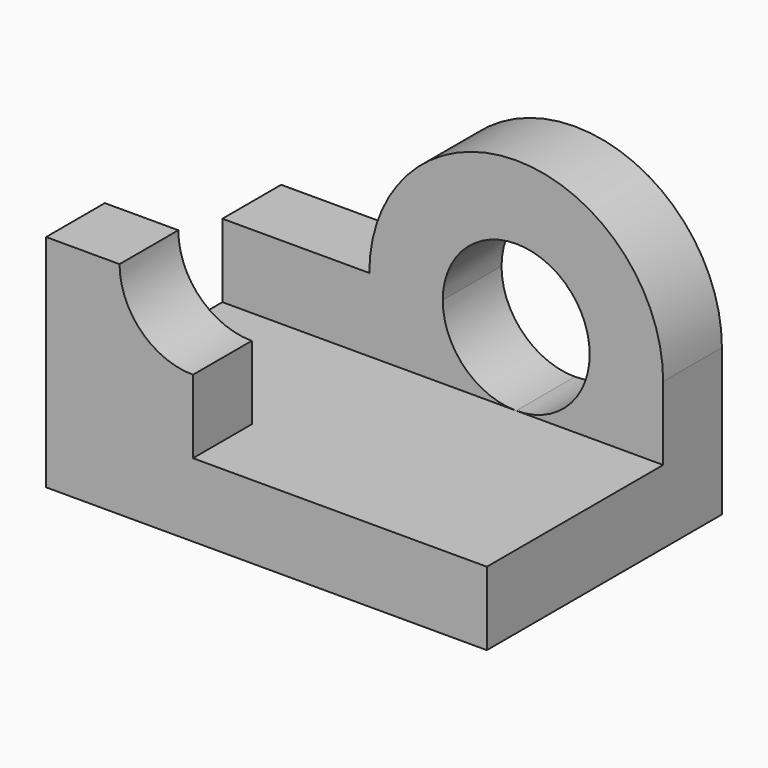
from build123d import *

# Parameters (mm, degrees)
F0_W      = 60
F0_H      = 40
F1_DEPTH  = 30
F3_DEPTH  = 20
F4_W      = 20
F4_H      = 10
F5_DEPTH  = 10
F6_W      = 40
F6_H      = 10
F7_DEPTH  = 25
F9_DEPTH  = 10
F11_DEPTH = 11
F13_DEPTH = 15
F16_DEPTH = 10
F18_DEPTH = 25


with BuildPart() as f1:
    # F0 (on Top) → F1 (new body)
    with BuildSketch(Plane.XY):
        with Locations((30, 20)):
            Rectangle(F0_W, F0_H)
    extrude(amount=F1_DEPTH)

    # F2 (on face) → F3 (cut)
    with BuildSketch(Plane.XY.offset(30)):
        Polygon((20, 10), (20, 0), (60, 0), (60, 30), (0, 30), (0, 10), align=None)
    extrude(amount=-F3_DEPTH, mode=Mode.SUBTRACT)

    # F4 (on face) → F5 (cut)
    with BuildSketch(Plane.XY.offset(30)):
        with Locations((10, 35)):
            Rectangle(F4_W, F4_H)
    extrude(amount=-F5_DEPTH, mode=Mode.SUBTRACT)

    # F6 (on face) → F7 (cut)
    with BuildSketch(Plane.XZ.offset(-30)):
        with Locations((40, 25)):
            Rectangle(F6_W, F6_H)
    extrude(amount=-F7_DEPTH, mode=Mode.SUBTRACT)

    # F10 (on face) → F11 (cut)
    with BuildSketch(Plane.XZ):
        with BuildLine():
            Line((20, 30), (10, 30))
            ThreePointArc((10, 30), (12.9289321881, 22.9289321881), (20, 20))
            Line((20, 20), (20, 30))
        make_face()
    extrude(amount=-F11_DEPTH, mode=Mode.SUBTRACT)


with BuildPart() as f9:
    # F8 (on face) → F9 (new body)
    with BuildSketch(Plane.XZ.offset(-30)):
        with BuildLine():
            Line((20.0364161283, 20), (60, 20))
            ThreePointArc((60, 20), (40.0182080641, 40.8581650258), (20.0364161283, 20))
        make_face()
    extrude(amount=-F9_DEPTH)


with BuildPart() as f13_tool:
    # F12 (on face) → F13 (new body)
    with BuildSketch(Plane.XZ.offset(-30)):
        with BuildLine():
            ThreePointArc((30, 20), (32.9289321881, 12.9289321881), (40, 10))
            ThreePointArc((40, 10), (47.0710678119, 12.9289321881), (50, 20))
            Line((50, 20), (40, 20))
            Line((40, 20), (30, 20))
        make_face()
        with BuildLine():
            Line((40, 20), (50, 20))
            ThreePointArc((50, 20), (40, 30), (30, 20))
            Line((30, 20), (40, 20))
        make_face()
    extrude(amount=-F13_DEPTH)


with BuildPart() as f1_1:
    add(f1.part)

    # F13: cut by f13_tool
    add(f13_tool.part, mode=Mode.SUBTRACT)

    # F15 (on face) → F16 (join)
    with BuildSketch(Plane.XZ.offset(-30)):
        with BuildLine():
            Line((50, 20), (60, 20))
            ThreePointArc((60, 20), (40, 40), (20, 20))
            Line((20, 20), (30, 20))
            Line((30, 20), (50, 20))
        make_face()
    extrude(amount=-F16_DEPTH)

    # F17 (on face) → F18 (cut)
    with BuildSketch(Plane.XZ.offset(-30)):
        with BuildLine():
            Line((30, 20), (50, 20))
            ThreePointArc((50, 20), (40, 30), (30, 20))
        make_face()
        with BuildLine():
            ThreePointArc((40, 10), (47.0710678119, 12.9289321881), (50, 20))
            Line((50, 20), (30, 20))
            ThreePointArc((30, 20), (32.9289321881, 12.9289321881), (40, 10))
        make_face()
    extrude(amount=-F18_DEPTH, mode=Mode.SUBTRACT)


with BuildPart() as f9_1:
    add(f9.part)

    # F13: cut by f13_tool
    add(f13_tool.part, mode=Mode.SUBTRACT)


solid = f1_1.part
